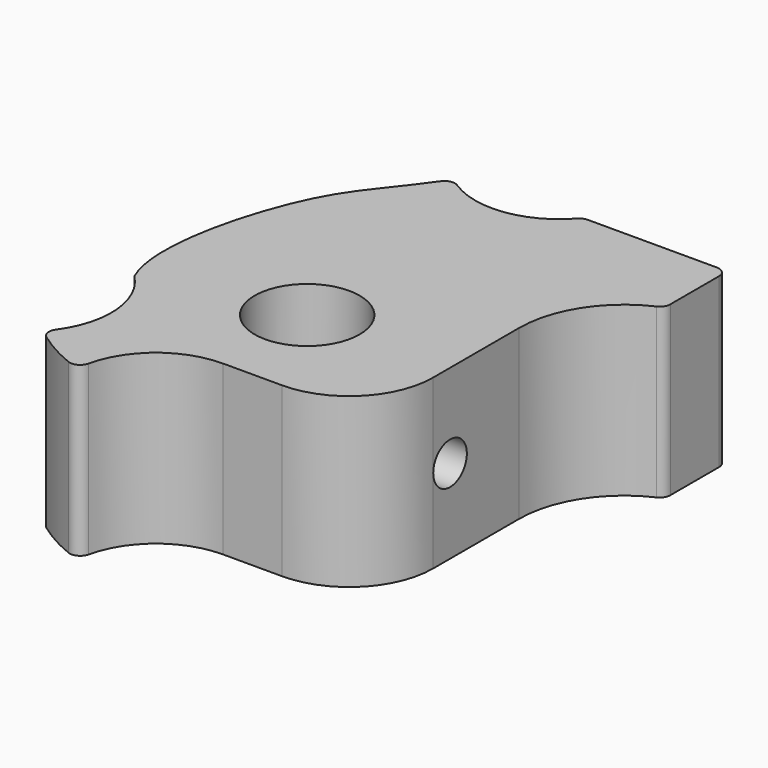
from build123d import *

# Parameters (mm, degrees)
F0_R     = 2.5
F1_DEPTH = 8
F2_R     = 0.5
F3_R     = 1
F4_DEPTH = 12.5


with BuildPart() as f1:
    # F0 (on Top) → F1 (new body)
    with BuildSketch(Plane.XY):
        with BuildLine():
            ThreePointArc((-3.9878581514, -8.6885720566), (-2.7160898573, -6.0635300296), (0, -5))
            Line((0, -5), (2.8, -5))
            ThreePointArc((2.8, -5), (5.6284271247, -3.8284271247), (6.8, -1))
            Line((6.8, -1), (6.8, 4.1070405464))
            ThreePointArc((6.8, 4.1070405464), (7.6768943744, 6.9354676711), (10, 8.7718020623))
            Line((10, 8.7718020623), (10, 12.5))
            Line((10, 12.5), (3.1224989992, 12.5))
            ThreePointArc((3.1224989992, 12.5), (0.4005785985, 11.0201084454), (-2.5616621646, 11.9278855889))
            add(Edge.make_bspline(
                [(-6.9689841618, -1.5710293014), (-8.0102303747, 0.7595881395), (-5.9806638587, 8.3334675363), (-4.0694582276, 9.7266677767), (-2.5616621646, 11.9278855889)],
                knots=[0, 0, 0, 0, 0.5567053674, 1, 1, 1, 1], degree=3))
            ThreePointArc((-6.9689841618, -1.5710293014), (-5.7970541621, -4.324632576), (-6.8636587821, -7.1207201108))
            ThreePointArc((-6.8636587821, -7.1207201108), (-5.5019929053, -8.0444775564), (-3.9878581514, -8.6885720566))
        make_face()
        Circle(F0_R, mode=Mode.SUBTRACT)
    extrude(amount=F1_DEPTH)

    # F2
    f2_edges = [f1.edges().sort_by_distance(p)[0] for p in [
        (10, 12.5, 4),
        (3.122499, 12.5, 4),
        (-2.561662, 11.927886, 4),
        (10, 8.771802, 4),
        (-3.987858, -8.688572, 4),
        (-6.863659, -7.12072, 4),
    ]]
    fillet(f2_edges, radius=F2_R)

    # F3 (on Right) → F4 (cut, symmetric)
    with BuildSketch(Plane.YZ):
        with Locations((0, 4)):
            Circle(F3_R)
    extrude(amount=F4_DEPTH, both=True, mode=Mode.SUBTRACT)


solid = f1.part
